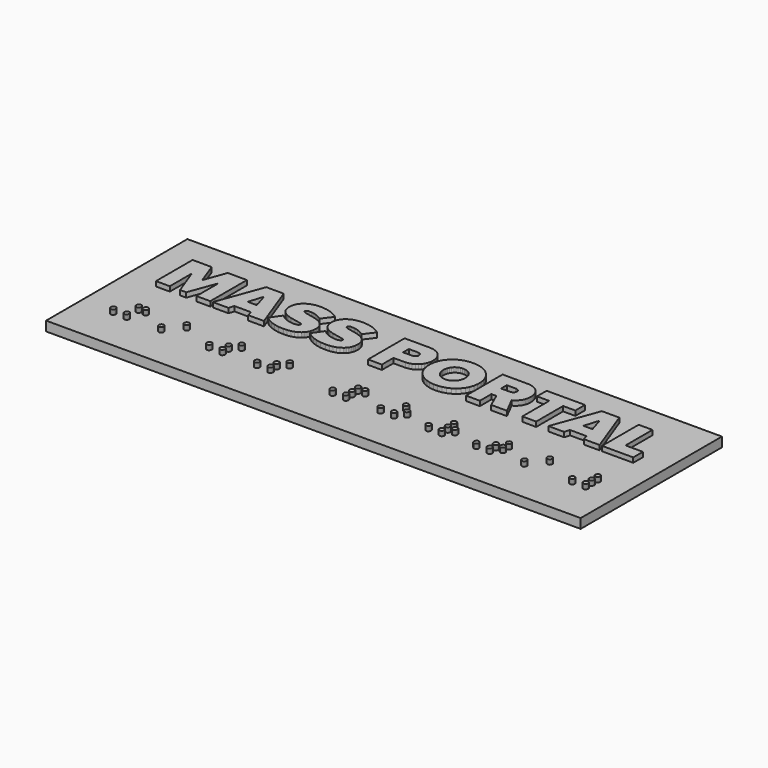
from build123d import *

# Parameters (mm, degrees)
F1_W     = 112
F1_H     = 37
F2_DEPTH = 2
F0_W     = 2.903547
F0_H     = 7.057639
F3_DEPTH = 3
F5_DEPTH = 1


with BuildPart() as f2:
    # F1 (on Top) → F2 (new body)
    with BuildSketch(Plane.XY):
        with Locations((-0.489352, -6.944787)):
            Rectangle(F1_W, F1_H)
    extrude(amount=F2_DEPTH)

    # F0 (on Top) → F3 (join)
    with BuildSketch(Plane.XY):
        Polygon((-10.735735, -3.493728), (-10.591875, -3.26892), (-10.468992, -3.029257), (-10.367511, -2.774986), (-10.287849, -2.506356), (-10.230428, -2.223614), (-10.183987, -1.616786), (-10.222649, -1.113876), (-10.333302, -0.671565), (-10.507951, -0.285334), (-10.738592, 0.049335), (-11.017227, 0.336957), (-11.33586, 0.58205), (-11.68649, 0.789131), (-12.061116, 0.962717), (-12.850363, 1.227472), (-14.962134, 1.687627), (-15.192776, 1.763024), (-15.367424, 1.850096), (-15.478077, 1.953361), (-15.516746, 2.077335), (-15.511744, 2.148788), (-15.505198, 2.182978), (-15.495701, 2.216015), (-15.483057, 2.247802), (-15.467069, 2.27824), (-15.447545, 2.307234), (-15.42429, 2.334687), (-15.397112, 2.360502), (-15.365817, 2.38458), (-15.330209, 2.406826), (-15.245281, 2.445431), (-15.140774, 2.475541), (-15.015137, 2.49638), (-14.866819, 2.507171), (-14.365931, 2.487209), (-14.078672, 2.449262), (-13.49436, 2.316446), (-12.91367, 2.107736), (-12.356613, 1.823131), (-11.966365, 1.559871), (-10.413971, 3.615354), (-10.751029, 3.869344), (-11.478264, 4.297113), (-12.270014, 4.617939), (-13.118685, 4.831824), (-14.016685, 4.938766), (-14.866778, 4.940679), (-15.57892, 4.852347), (-16.213659, 4.684197), (-16.770563, 4.44511), (-17.249201, 4.143971), (-17.649138, 3.789662), (-17.969945, 3.391068), (-18.100544, 3.177939), (-18.301851, 2.72957), (-18.422952, 2.259123), (-18.463418, 1.775481), (-18.424651, 1.242966), (-18.313698, 0.776243), (-18.138578, 0.370387), (-17.907315, 0.020472), (-17.627927, -0.278431), (-17.308436, -0.531246), (-16.956863, -0.742902), (-16.581227, -0.918324), (-15.789853, -1.180175), (-13.672391, -1.608507), (-13.441128, -1.67953), (-13.266008, -1.763588), (-13.155055, -1.865605), (-13.116284, -1.99051), (-13.120103, -2.044855), (-13.131319, -2.095814), (-13.149565, -2.143453), (-13.17447, -2.187837), (-13.205672, -2.229029), (-13.242805, -2.267095), (-13.2855, -2.302099), (-13.333392, -2.334106), (-13.443296, -2.389389), (-13.569583, -2.433459), (-13.709325, -2.466836), (-14.01745, -2.503576), (-14.372377, -2.503928), (-15.107535, -2.411848), (-15.782326, -2.212826), (-16.389844, -1.926179), (-16.923194, -1.571228), (-17.270373, -1.27181), (-18.779644, -3.427911), (-18.120281, -3.939626), (-17.358114, -4.361647), (-16.480036, -4.680175), (-15.472935, -4.881411), (-14.323704, -4.951556), (-13.582565, -4.915233), (-12.90516, -4.807586), (-12.294852, -4.630599), (-11.755005, -4.386255), (-11.288985, -4.076538), (-11.08471, -3.897785), (-10.900153, -3.703432), align=None)
        Polygon((-34.461695, -3.657895), (-31.011932, -3.657895), (-30.666955, -4.779068), (-27.375307, -4.779068), (-30.911313, 4.808397), (-34.562313, 4.808397), (-38.098318, -4.779068), (-34.806669, -4.779068), align=None)
        Polygon((-31.788127, -1.128069), (-33.685497, -1.128069), (-32.736812, 1.962343), align=None, mode=Mode.SUBTRACT)
        Polygon((-44.307889, 0.208714), (-45.989651, 4.808397), (-50.000001, 4.808397), (-50.000001, -4.779068), (-47.09645, -4.779068), (-47.09645, 0.98491), (-44.95472, -4.779068), (-43.661062, -4.779068), (-41.519332, 0.98491), (-41.519332, -4.779068), (-38.615782, -4.779068), (-38.615782, 4.808397), (-42.626132, 4.808397), align=None)
        Polygon((2.112978, 3.836354), (1.929948, 4.008963), (1.513949, 4.310174), (1.032234, 4.546745), (0.485835, 4.711517), (-0.124211, 4.797333), (-5.569932, 4.808397), (-5.569932, -4.779068), (-2.666382, -4.779068), (-2.666382, -1.760526), (-0.124214, -1.749465), (0.485832, -1.663695), (1.032231, -1.499099), (1.513946, -1.262919), (1.929945, -0.962401), (2.279187, -0.60479), (2.560647, -0.19733), (2.773282, 0.252735), (2.916058, 0.73816), (2.960928, 0.991868), (2.996979, 1.516749), (2.960928, 2.045526), (2.853469, 2.549032), (2.675629, 3.020111), (2.428458, 3.451605), align=None)
        Polygon((-2.666382, 2.278571), (-0.753989, 2.276734), (-0.614346, 2.261979), (-0.483327, 2.232303), (-0.362657, 2.187535), (-0.25406, 2.127502), (-0.204829, 2.091707), (-0.159265, 2.052032), (-0.11758, 2.008453), (-0.079992, 1.960951), (-0.046718, 1.909503), (-0.01797, 1.854088), (0.006033, 1.794683), (0.025079, 1.731269), (0.047431, 1.592322), (0.047434, 1.443224), (0.025082, 1.307774), (0.006036, 1.245828), (-0.017967, 1.187719), (-0.046714, 1.133437), (-0.079989, 1.082972), (-0.117577, 1.036312), (-0.159261, 0.993447), (-0.254057, 0.919058), (-0.362654, 0.859718), (-0.483324, 0.815342), (-0.614343, 0.785843), (-0.753986, 0.771135), (-2.666382, 0.7693), align=None, mode=Mode.SUBTRACT)
        Polygon((-23.773405, 1.687627), (-24.004046, 1.763024), (-24.178694, 1.850096), (-24.289349, 1.953361), (-24.328015, 2.077335), (-24.323012, 2.148788), (-24.316469, 2.182978), (-24.306971, 2.216015), (-24.294326, 2.247802), (-24.278339, 2.27824), (-24.258815, 2.307234), (-24.235561, 2.334687), (-24.208384, 2.360502), (-24.177087, 2.38458), (-24.141479, 2.406826), (-24.056551, 2.445431), (-23.952044, 2.475541), (-23.826407, 2.49638), (-23.678089, 2.507171), (-23.177201, 2.487209), (-22.889942, 2.449262), (-22.30563, 2.316446), (-21.72494, 2.107736), (-21.167883, 1.823131), (-20.777635, 1.559871), (-19.225242, 3.615354), (-19.562299, 3.869344), (-20.289534, 4.297113), (-21.081284, 4.617939), (-21.929955, 4.831824), (-22.827955, 4.938766), (-23.678048, 4.940679), (-24.390191, 4.852347), (-25.024929, 4.684197), (-25.581831, 4.44511), (-26.060468, 4.143971), (-26.460408, 3.789662), (-26.781219, 3.391068), (-26.911815, 3.177939), (-27.113124, 2.72957), (-27.234226, 2.259123), (-27.274687, 1.775481), (-27.235921, 1.242966), (-27.124968, 0.776243), (-26.94985, 0.370387), (-26.718587, 0.020472), (-26.439199, -0.278431), (-26.119708, -0.531246), (-25.768134, -0.742902), (-25.392497, -0.918324), (-24.601121, -1.180175), (-22.483658, -1.608507), (-22.252395, -1.67953), (-22.077278, -1.763588), (-21.966325, -1.865605), (-21.927554, -1.99051), (-21.931374, -2.044855), (-21.942589, -2.095814), (-21.960835, -2.143453), (-21.985741, -2.187837), (-22.016943, -2.229029), (-22.054075, -2.267095), (-22.09677, -2.302099), (-22.144662, -2.334106), (-22.254563, -2.389389), (-22.38085, -2.433459), (-22.520592, -2.466836), (-22.828717, -2.503576), (-23.183647, -2.503928), (-23.918805, -2.411848), (-24.593591, -2.212826), (-25.201109, -1.926179), (-25.734456, -1.571228), (-26.081644, -1.27181), (-27.590915, -3.427911), (-26.931553, -3.939626), (-26.169387, -4.361647), (-25.291308, -4.680175), (-24.284205, -4.881411), (-23.134971, -4.951556), (-22.393833, -4.915233), (-21.716428, -4.807586), (-21.106123, -4.630599), (-20.566279, -4.386255), (-20.100262, -4.076538), (-19.895986, -3.897785), (-19.711429, -3.703432), (-19.547012, -3.493728), (-19.403151, -3.26892), (-19.280268, -3.029257), (-19.178787, -2.774986), (-19.099126, -2.506356), (-19.041705, -2.223614), (-18.995257, -1.616786), (-19.033919, -1.113876), (-19.144573, -0.671565), (-19.319221, -0.285334), (-19.549862, 0.049335), (-19.828497, 0.336957), (-20.14713, 0.58205), (-20.49776, 0.789131), (-20.872386, 0.962717), (-21.661633, 1.227472), align=None)
        Polygon((23.442152, 2.300884), (23.299375, 2.789072), (23.08674, 3.241253), (22.805281, 3.65027), (22.456035, 4.008963), (22.04003, 4.310174), (21.558312, 4.546745), (21.011913, 4.711517), (20.401867, 4.797333), (14.956159, 4.808397), (14.956159, -4.779068), (17.859706, -4.779068), (17.859706, -1.760526), (18.909018, -1.760526), (20.231423, -4.779068), (23.537445, -4.779068), (21.798186, -1.386801), (22.031607, -1.259318), (22.270117, -1.100011), (22.506726, -0.907241), (22.734453, -0.67937), (22.946317, -0.414759), (23.135327, -0.111769), (23.294497, 0.231239), (23.360708, 0.418261), (23.462014, 0.824366), (23.516014, 1.274585), (23.514038, 1.783849), align=None)
        Polygon((19.844239, 2.262853), (19.982125, 2.23455), (20.111818, 2.191586), (20.230728, 2.133616), (20.336274, 2.060295), (20.383222, 2.017769), (20.42586, 1.971276), (20.463863, 1.920773), (20.496904, 1.866216), (20.524667, 1.807563), (20.546818, 1.744771), (20.563045, 1.677795), (20.573018, 1.606594), (20.576397, 1.531123), (20.572998, 1.453602), (20.563026, 1.380555), (20.546798, 1.311928), (20.524647, 1.247667), (20.496885, 1.187719), (20.463844, 1.132028), (20.425841, 1.080542), (20.383203, 1.033207), (20.336255, 0.989968), (20.230709, 0.915564), (20.111799, 0.8569), (19.982106, 0.813544), (19.84422, 0.785066), (19.700729, 0.771033), (17.859706, 0.7693), (17.859706, 2.278571), (19.700748, 2.276839), align=None, mode=Mode.SUBTRACT)
        Polygon((13.904284, 0.442337), (13.772385, 1.266777), (13.517852, 2.025455), (13.150339, 2.711903), (12.679505, 3.319655), (12.11501, 3.84224), (11.466508, 4.273191), (10.743666, 4.60604), (9.956144, 4.834317), (9.113601, 4.951555), (8.235829, 4.951553), (7.393286, 4.834315), (6.605763, 4.606037), (5.882921, 4.273189), (5.23442, 3.842238), (4.669925, 3.319652), (4.199091, 2.711901), (4.001817, 2.37811), (3.831577, 2.025453), (3.577044, 1.266775), (3.445146, 0.442336), (3.445139, -0.427381), (3.577038, -1.251821), (3.831571, -2.010499), (4.199085, -2.696948), (4.669919, -3.304699), (5.234413, -3.827285), (5.882915, -4.258236), (6.605757, -4.591084), (7.393279, -4.819361), (8.235823, -4.936599), (9.113607, -4.936598), (9.95615, -4.81936), (10.743673, -4.591083), (11.466515, -4.258235), (12.115016, -3.827284), (12.679511, -3.304699), (13.150345, -2.696948), (13.517858, -2.010499), (13.772391, -1.25182), (13.90429, -0.42738), align=None)
        Polygon((10.222103, 1.833796), (10.462398, 1.574183), (10.659615, 1.276839), (10.811254, 0.946506), (10.914817, 0.587929), (10.967797, 0.20585), (10.967817, -0.190892), (10.914836, -0.572971), (10.811274, -0.931549), (10.659634, -1.261881), (10.462417, -1.559226), (10.222122, -1.818839), (9.941249, -2.035976), (9.622297, -2.205895), (9.267765, -2.323852), (8.88016, -2.385104), (8.469295, -2.385104), (8.08169, -2.323852), (7.727158, -2.205895), (7.408206, -2.035976), (7.127327, -1.818839), (6.887019, -1.559227), (6.689802, -1.261882), (6.538162, -0.93155), (6.434599, -0.572972), (6.381619, -0.190893), (6.381613, 0.205848), (6.434593, 0.587928), (6.538156, 0.946505), (6.689796, 1.276838), (6.887013, 1.574183), (7.12732, 1.833795), (7.4082, 2.050933), (7.727152, 2.220851), (8.081683, 2.338807), (8.469288, 2.400059), (8.880141, 2.400059), (9.267746, 2.338807), (9.622278, 2.220851), (9.94123, 2.050933), align=None, mode=Mode.SUBTRACT)
        Polygon((46.363377, -2.249242), (46.363377, 4.808397), (43.459824, 4.808397), (43.459824, -4.779068), (49.999999, -4.779068), (49.999999, -2.249242), align=None)
        Polygon((35.755353, 4.808397), (32.219348, -4.779068), (35.51099, -4.779068), (35.85597, -3.657895), (39.305731, -3.657895), (39.650711, -4.779068), (42.942354, -4.779068), (39.406348, 4.808397), align=None)
        Polygon((36.632162, -1.128069), (37.580851, 1.962343), (38.529539, -1.128069), align=None, mode=Mode.SUBTRACT)
        with Locations((28.208994, -1.250248)):
            Rectangle(F0_W, F0_H)
        Polygon((24.184269, 2.278571), (26.757221, 2.278571), (29.660768, 2.278571), (32.219341, 2.278571), (32.219341, 4.808397), (24.184269, 4.808397), align=None)
    extrude(amount=F3_DEPTH)

    # F4 (on face) → F5 (join)
    with BuildSketch(Plane.XY.offset(2)):
        Polygon((9.773728, -16.815284), (9.787575, -16.782964), (9.808884, -16.715428), (9.821666, -16.644034), (9.825929, -16.568779), (9.821894, -16.493686), (9.809834, -16.422773), (9.789737, -16.356042), (9.761598, -16.29349), (9.744513, -16.263783), (9.704317, -16.207502), (9.656648, -16.155967), (9.604867, -16.112551), (9.549553, -16.077818), (9.4907, -16.05177), (9.428308, -16.034403), (9.362383, -16.025719), (9.292757, -16.02578), (9.224259, -16.034945), (9.158658, -16.053276), (9.095942, -16.080773), (9.036121, -16.117436), (8.979197, -16.163264), (8.925925, -16.217493), (8.880903, -16.275541), (8.844882, -16.336645), (8.817869, -16.400803), (8.799861, -16.468018), (8.790854, -16.538287), (8.790811, -16.611753), (8.799499, -16.68347), (8.816863, -16.751649), (8.842916, -16.81629), (8.877651, -16.877394), (8.921067, -16.934959), (8.972443, -16.988305), (9.027433, -17.033328), (9.085319, -17.069348), (9.146101, -17.096361), (9.209779, -17.114371), (9.276353, -17.123376), (9.345077, -17.123376), (9.411484, -17.114371), (9.474837, -17.096361), (9.535139, -17.069348), (9.592381, -17.033328), (9.646572, -16.988305), (9.697023, -16.934919), (9.739636, -16.877031), align=None)
        Polygon((-46.231302, -13.69433), (-46.215322, -13.663215), (-46.189755, -13.597609), (-46.172711, -13.527501), (-46.164189, -13.45289), (-46.164128, -13.375847), (-46.172168, -13.303004), (-46.188248, -13.234504), (-46.212368, -13.170346), (-46.244528, -13.110527), (-46.284728, -13.055051), (-46.332405, -13.004441), (-46.384182, -12.961828), (-46.439497, -12.927738), (-46.49835, -12.902171), (-46.56074, -12.885127), (-46.626667, -12.876605), (-46.696293, -12.876664), (-46.764795, -12.885669), (-46.830401, -12.903679), (-46.893112, -12.930693), (-46.952929, -12.966713), (-47.009853, -13.011736), (-47.063116, -13.065039), (-47.108141, -13.122284), (-47.144159, -13.182746), (-47.171174, -13.246422), (-47.189184, -13.313315), (-47.198188, -13.383424), (-47.198229, -13.455944), (-47.189545, -13.526052), (-47.17218, -13.592945), (-47.14613, -13.656622), (-47.111397, -13.717082), (-47.067981, -13.774327), (-47.016606, -13.827632), (-46.961613, -13.872657), (-46.903725, -13.908675), (-46.842942, -13.93569), (-46.779266, -13.953698), (-46.712694, -13.962703), (-46.643973, -13.962745), (-46.577563, -13.954061), (-46.514208, -13.936694), (-46.483677, -13.924756), (-46.424904, -13.894365), (-46.369187, -13.85529), (-46.316525, -13.807533), (-46.269652, -13.753183), align=None)
        Polygon((-14.874782, -13.924756), (-14.84439, -13.910645), (-14.786503, -13.875913), (-14.732474, -13.832497), (-14.682867, -13.78092), (-14.641061, -13.724318), (-14.607614, -13.663215), (-14.582528, -13.597609), (-14.565807, -13.527501), (-14.557444, -13.45289), (-14.557414, -13.375847), (-14.565453, -13.303004), (-14.581531, -13.234504), (-14.60565, -13.170346), (-14.637807, -13.110527), (-14.678005, -13.055051), (-14.72568, -13.004441), (-14.777458, -12.961828), (-14.832772, -12.927738), (-14.891625, -12.902171), (-14.954014, -12.885127), (-15.019942, -12.876605), (-15.089547, -12.876664), (-15.157887, -12.885669), (-15.223173, -12.903679), (-15.285403, -12.930693), (-15.344577, -12.966713), (-15.400696, -13.011736), (-15.453036, -13.065039), (-15.497256, -13.122284), (-15.53263, -13.182746), (-15.559164, -13.246422), (-15.576853, -13.313315), (-15.585697, -13.383424), (-15.585756, -13.455944), (-15.577393, -13.526052), (-15.560672, -13.592945), (-15.535586, -13.656622), (-15.50214, -13.717082), (-15.460333, -13.774327), (-15.410808, -13.827632), (-15.357421, -13.872657), (-15.300822, -13.908675), (-15.241004, -13.93569), (-15.209889, -13.945819), (-15.145248, -13.959327), (-15.077388, -13.963829), (-15.005993, -13.959488), (-14.938457, -13.946464), align=None)
        Polygon((6.12174, -16.223282), (6.077519, -16.28133), (6.04214, -16.342434), (6.015607, -16.406593), (6.005655, -16.439817), (5.992391, -16.50856), (5.987966, -16.580356), (5.992149, -16.652073), (6.004687, -16.720573), (6.025592, -16.785858), (6.03918, -16.817295), (6.072628, -16.877755), (6.114435, -16.935), (6.163958, -16.988305), (6.217344, -17.033328), (6.27395, -17.069348), (6.333764, -17.096361), (6.396798, -17.114371), (6.463054, -17.123376), (6.533561, -17.123396), (6.603025, -17.114553), (6.668631, -17.096864), (6.73038, -17.070332), (6.788267, -17.034957), (6.842295, -16.990736), (6.891899, -16.938236), (6.933711, -16.88083), (6.967159, -16.819084), (6.992245, -16.752994), (7.008966, -16.682565), (7.017325, -16.607793), (7.017352, -16.53073), (7.009313, -16.457888), (6.993234, -16.389388), (6.969115, -16.325228), (6.936958, -16.265412), (6.896761, -16.209936), (6.849086, -16.159324), (6.797311, -16.116712), (6.741997, -16.082623), (6.683143, -16.057055), (6.620751, -16.04001), (6.554826, -16.031488), (6.485217, -16.031569), (6.416876, -16.040734), (6.351594, -16.059065), (6.289363, -16.086561), (6.230191, -16.123224), (6.174072, -16.169052), align=None)
        Polygon((49.095182, -13.774327), (49.146563, -13.827632), (49.201553, -13.872657), (49.25944, -13.908675), (49.320221, -13.93569), (49.383899, -13.953698), (49.450473, -13.962703), (49.519197, -13.962745), (49.585609, -13.954061), (49.648962, -13.936694), (49.679499, -13.924756), (49.738271, -13.894365), (49.793985, -13.85529), (49.846641, -13.807533), (49.893505, -13.753183), (49.931855, -13.69433), (49.947835, -13.663215), (49.973403, -13.597609), (49.990443, -13.527501), (49.998969, -13.45289), (49.999023, -13.375847), (49.990984, -13.303004), (49.974904, -13.234504), (49.950786, -13.170346), (49.918628, -13.110527), (49.878431, -13.055051), (49.830757, -13.004441), (49.778976, -12.961828), (49.723662, -12.927738), (49.664813, -12.902171), (49.602422, -12.885127), (49.536496, -12.876605), (49.466833, -12.876664), (49.398336, -12.885669), (49.332734, -12.903679), (49.270028, -12.930693), (49.21022, -12.966713), (49.153306, -13.011736), (49.100034, -13.065039), (49.055007, -13.122284), (49.018991, -13.182746), (48.991978, -13.246422), (48.973975, -13.313315), (48.964974, -13.383424), (48.96492, -13.455944), (48.973597, -13.526052), (48.990962, -13.592945), (49.017014, -13.656622), (49.051755, -13.717082), align=None)
        Polygon((-3.558308, -16.031569), (-3.62665, -16.040734), (-3.691932, -16.059065), (-3.754161, -16.086561), (-3.813339, -16.123224), (-3.869458, -16.169052), (-3.921795, -16.223282), (-3.966017, -16.28133), (-4.00139, -16.342434), (-4.027923, -16.406593), (-4.045606, -16.473808), (-4.054451, -16.544077), (-4.054522, -16.616617), (-4.046162, -16.686726), (-4.029441, -16.753617), (-4.004355, -16.817295), (-3.970906, -16.877755), (-3.929094, -16.935), (-3.879561, -16.988305), (-3.826175, -17.033328), (-3.769576, -17.069348), (-3.709761, -17.096361), (-3.646726, -17.114371), (-3.580476, -17.123376), (-3.509963, -17.123396), (-3.4405, -17.114553), (-3.374893, -17.096864), (-3.313144, -17.070332), (-3.255258, -17.034957), (-3.201229, -16.990736), (-3.151621, -16.938236), (-3.109814, -16.88083), (-3.076365, -16.819084), (-3.051279, -16.752994), (-3.034558, -16.682565), (-3.026199, -16.607793), (-3.026172, -16.53073), (-3.034213, -16.457888), (-3.050291, -16.389388), (-3.074409, -16.325228), (-3.106567, -16.265412), (-3.146763, -16.209936), (-3.194438, -16.159324), (-3.246219, -16.116712), (-3.301533, -16.082623), (-3.360387, -16.057055), (-3.422779, -16.04001), (-3.488704, -16.031488), align=None)
        Polygon((-0.281927, -16.29349), (-0.299011, -16.263783), (-0.339208, -16.207502), (-0.386877, -16.155967), (-0.438657, -16.112551), (-0.493972, -16.077818), (-0.552824, -16.05177), (-0.615217, -16.034403), (-0.681141, -16.025719), (-0.750764, -16.02578), (-0.81926, -16.034945), (-0.884866, -16.053276), (-0.947583, -16.080773), (-1.007404, -16.117436), (-1.064327, -16.163264), (-1.117599, -16.217493), (-1.162621, -16.275541), (-1.198642, -16.336645), (-1.225656, -16.400803), (-1.243664, -16.468018), (-1.252671, -16.538287), (-1.252708, -16.611753), (-1.24402, -16.68347), (-1.226656, -16.751649), (-1.200603, -16.81629), (-1.165873, -16.877394), (-1.122457, -16.934959), (-1.071086, -16.988305), (-1.016096, -17.033328), (-0.958211, -17.069348), (-0.897428, -17.096361), (-0.83375, -17.114371), (-0.767177, -17.123376), (-0.698453, -17.123376), (-0.632042, -17.114371), (-0.568687, -17.096361), (-0.508387, -17.069348), (-0.451144, -17.033328), (-0.396952, -16.988305), (-0.346507, -16.934919), (-0.303894, -16.877031), (-0.269802, -16.815284), (-0.255955, -16.782964), (-0.234646, -16.715428), (-0.221864, -16.644034), (-0.217601, -16.568779), (-0.22163, -16.493686), (-0.23369, -16.422773), (-0.253789, -16.356042), align=None)
        Polygon((39.558887, -12.885127), (39.492962, -12.876605), (39.423319, -12.876664), (39.354821, -12.885669), (39.28922, -12.903679), (39.226515, -12.930693), (39.166705, -12.966713), (39.109786, -13.011736), (39.05652, -13.065039), (39.011499, -13.122284), (38.975478, -13.182746), (38.948463, -13.246422), (38.930456, -13.313315), (38.92145, -13.383424), (38.921411, -13.455944), (38.930093, -13.526052), (38.947459, -13.592945), (38.973506, -13.656622), (39.008235, -13.717082), (39.051652, -13.774327), (39.103022, -13.827632), (39.158018, -13.872657), (39.215904, -13.908675), (39.276685, -13.93569), (39.340363, -13.953698), (39.406937, -13.962703), (39.47565, -13.962745), (39.542063, -13.954061), (39.605416, -13.936694), (39.635952, -13.924756), (39.694725, -13.894365), (39.750449, -13.85529), (39.803116, -13.807533), (39.849981, -13.753183), (39.888331, -13.69433), (39.904311, -13.663215), (39.929878, -13.597609), (39.946918, -13.527501), (39.955444, -13.45289), (39.955498, -13.375847), (39.947459, -13.303004), (39.93138, -13.234504), (39.907261, -13.170346), (39.875104, -13.110527), (39.834907, -13.055051), (39.787232, -13.004441), (39.735452, -12.961828), (39.680126, -12.927738), (39.621279, -12.902171), align=None)
        Polygon((48.964974, -14.957972), (48.96492, -15.031417), (48.973597, -15.103133), (48.990962, -15.171312), (49.017014, -15.235953), (49.051755, -15.297057), (49.095182, -15.354624), (49.146563, -15.407968), (49.201553, -15.452993), (49.25944, -15.489011), (49.320221, -15.516026), (49.383899, -15.534035), (49.450473, -15.54304), (49.519197, -15.54306), (49.585609, -15.534216), (49.648962, -15.516528), (49.709269, -15.489996), (49.766507, -15.45462), (49.820697, -15.4104), (49.871137, -15.357939), (49.913745, -15.300856), (49.947835, -15.239752), (49.961688, -15.207693), (49.982987, -15.14056), (49.995769, -15.069405), (50.000038, -14.994231), (49.996007, -14.919139), (49.983949, -14.848225), (49.96385, -14.781494), (49.935712, -14.718944), (49.918628, -14.689236), (49.878431, -14.632956), (49.830757, -14.581419), (49.778976, -14.538004), (49.723662, -14.503271), (49.664813, -14.477222), (49.602422, -14.459855), (49.536496, -14.451173), (49.466833, -14.451212), (49.398336, -14.460217), (49.332734, -14.478227), (49.270028, -14.505241), (49.21022, -14.541261), (49.153306, -14.586284), (49.100034, -14.639589), (49.055007, -14.696833), (49.018991, -14.757293), (48.991978, -14.82097), (48.973975, -14.887863), align=None)
        Polygon((46.79486, -16.04001), (46.728935, -16.031488), (46.659326, -16.031569), (46.59098, -16.040734), (46.525703, -16.059065), (46.463472, -16.086561), (46.4043, -16.123224), (46.348187, -16.169052), (46.295844, -16.223282), (46.251628, -16.28133), (46.216249, -16.342434), (46.201878, -16.374131), (46.179769, -16.439817), (46.1665, -16.50856), (46.162081, -16.580356), (46.166262, -16.652073), (46.178808, -16.720573), (46.188209, -16.753617), (46.213288, -16.817295), (46.246731, -16.877755), (46.28854, -16.935), (46.338062, -16.988305), (46.391453, -17.033328), (46.448053, -17.069348), (46.507873, -17.096361), (46.570913, -17.114371), (46.637163, -17.123376), (46.70768, -17.123396), (46.777151, -17.114553), (46.842752, -17.096864), (46.904495, -17.070332), (46.962381, -17.034957), (47.01641, -16.990736), (47.066018, -16.938236), (47.107825, -16.88083), (47.141268, -16.819084), (47.166349, -16.752994), (47.183065, -16.682565), (47.191429, -16.607793), (47.191461, -16.53073), (47.183421, -16.457888), (47.167343, -16.389388), (47.143224, -16.325228), (47.111067, -16.265412), (47.07087, -16.209936), (47.023195, -16.159324), (46.971415, -16.116712), (46.9161, -16.082623), (46.857252, -16.057055), align=None)
        Polygon((49.918628, -16.263783), (49.878431, -16.207502), (49.830757, -16.155967), (49.778976, -16.112551), (49.723662, -16.077818), (49.664813, -16.05177), (49.602422, -16.034403), (49.536496, -16.025719), (49.466833, -16.02578), (49.398336, -16.034945), (49.332734, -16.053276), (49.270028, -16.080773), (49.21022, -16.117436), (49.153306, -16.163264), (49.100034, -16.217493), (49.055007, -16.275541), (49.018991, -16.336645), (48.991978, -16.400803), (48.973975, -16.468018), (48.964974, -16.538287), (48.96492, -16.611753), (48.973597, -16.68347), (48.990962, -16.751649), (49.017014, -16.81629), (49.051755, -16.877394), (49.095182, -16.934959), (49.146563, -16.988305), (49.201553, -17.033328), (49.25944, -17.069348), (49.320221, -17.096361), (49.383899, -17.114371), (49.450473, -17.123376), (49.519197, -17.123376), (49.585609, -17.114371), (49.648962, -17.096361), (49.709269, -17.069348), (49.766507, -17.033328), (49.820697, -16.988305), (49.871137, -16.934919), (49.913745, -16.877031), (49.947835, -16.815284), (49.961688, -16.782964), (49.982987, -16.715428), (49.995769, -16.644034), (50.000038, -16.568779), (49.996007, -16.493686), (49.983949, -16.422773), (49.96385, -16.356042), (49.935712, -16.29349), align=None)
        Polygon((29.903394, -16.680214), (29.911914, -16.606888), (29.911968, -16.53071), (29.903929, -16.457707), (29.88785, -16.388885), (29.863731, -16.324243), (29.831574, -16.263783), (29.791377, -16.207502), (29.743702, -16.155967), (29.691927, -16.112551), (29.636613, -16.077818), (29.577759, -16.05177), (29.515367, -16.034403), (29.449442, -16.025719), (29.379838, -16.02578), (29.311329, -16.034945), (29.245718, -16.053276), (29.183002, -16.080773), (29.123181, -16.117436), (29.066258, -16.163264), (29.01299, -16.217493), (28.967969, -16.275541), (28.931948, -16.336645), (28.904934, -16.400803), (28.886926, -16.468018), (28.877919, -16.538287), (28.877881, -16.611753), (28.886565, -16.68347), (28.903929, -16.751649), (28.929981, -16.81629), (28.96471, -16.877394), (29.008128, -16.934959), (29.059503, -16.988305), (29.114493, -17.033328), (29.17238, -17.069348), (29.233161, -17.096361), (29.296839, -17.114371), (29.363413, -17.123376), (29.432137, -17.123376), (29.498543, -17.114371), (29.561896, -17.096361), (29.622197, -17.069348), (29.679441, -17.033328), (29.733631, -16.988305), (29.784089, -16.934919), (29.8267, -16.877031), (29.860787, -16.815284), (29.886353, -16.749679), align=None)
        Polygon((-26.411292, -16.05177), (-26.473683, -16.034403), (-26.53961, -16.025719), (-26.609236, -16.02578), (-26.677736, -16.034945), (-26.743343, -16.053276), (-26.806054, -16.080773), (-26.865872, -16.117436), (-26.922795, -16.163264), (-26.976059, -16.217493), (-27.021084, -16.275541), (-27.057102, -16.336645), (-27.084116, -16.400803), (-27.102127, -16.468018), (-27.111131, -16.538287), (-27.11117, -16.611753), (-27.102488, -16.68347), (-27.085121, -16.751649), (-27.059071, -16.81629), (-27.02434, -16.877394), (-26.980925, -16.934959), (-26.92955, -16.988305), (-26.874554, -17.033328), (-26.816668, -17.069348), (-26.755886, -17.096361), (-26.692208, -17.114371), (-26.625637, -17.123376), (-26.556916, -17.123376), (-26.490507, -17.114371), (-26.427151, -17.096361), (-26.366853, -17.069348), (-26.309606, -17.033328), (-26.255418, -16.988305), (-26.204967, -16.934919), (-26.162354, -16.877031), (-26.128265, -16.815284), (-26.102696, -16.749679), (-26.085653, -16.680214), (-26.07713, -16.606888), (-26.077079, -16.53071), (-26.085118, -16.457707), (-26.101197, -16.388885), (-26.125316, -16.324243), (-26.157474, -16.263783), (-26.19767, -16.207502), (-26.245345, -16.155967), (-26.297123, -16.112551), (-26.35244, -16.077818), align=None)
        Polygon((-46.164189, -16.606888), (-46.164128, -16.53071), (-46.172168, -16.457707), (-46.188248, -16.388885), (-46.212368, -16.324243), (-46.244528, -16.263783), (-46.284728, -16.207502), (-46.332405, -16.155967), (-46.384182, -16.112551), (-46.439497, -16.077818), (-46.49835, -16.05177), (-46.56074, -16.034403), (-46.626667, -16.025719), (-46.696293, -16.02578), (-46.764795, -16.034945), (-46.830401, -16.053276), (-46.893112, -16.080773), (-46.952929, -16.117436), (-47.009853, -16.163264), (-47.063116, -16.217493), (-47.108141, -16.275541), (-47.144159, -16.336645), (-47.171174, -16.400803), (-47.189184, -16.468018), (-47.198188, -16.538287), (-47.198229, -16.611753), (-47.189545, -16.68347), (-47.17218, -16.751649), (-47.14613, -16.81629), (-47.111397, -16.877394), (-47.067981, -16.934959), (-47.016606, -16.988305), (-46.961613, -17.033328), (-46.903725, -17.069348), (-46.842942, -17.096361), (-46.779266, -17.114371), (-46.712694, -17.123376), (-46.643973, -17.123376), (-46.577563, -17.114371), (-46.514208, -17.096361), (-46.453908, -17.069348), (-46.396664, -17.033328), (-46.342475, -16.988305), (-46.292024, -16.934919), (-46.249412, -16.877031), (-46.215322, -16.815284), (-46.189755, -16.749679), (-46.172711, -16.680214), align=None)
        Polygon((-16.161437, -15.357939), (-16.118824, -15.300856), (-16.084736, -15.239752), (-16.059167, -15.174628), (-16.042123, -15.105485), (-16.0336, -15.032322), (-16.03354, -14.956163), (-16.041581, -14.88316), (-16.057659, -14.814337), (-16.081777, -14.749696), (-16.113941, -14.689236), (-16.154143, -14.632956), (-16.201821, -14.581419), (-16.253596, -14.538004), (-16.30891, -14.503271), (-16.367764, -14.477222), (-16.430153, -14.459855), (-16.496081, -14.451173), (-16.565707, -14.451212), (-16.634206, -14.460217), (-16.699813, -14.478227), (-16.762524, -14.505241), (-16.822342, -14.541261), (-16.879265, -14.586284), (-16.932532, -14.639589), (-16.977556, -14.696833), (-17.013575, -14.757293), (-17.040588, -14.82097), (-17.050719, -14.854014), (-17.064227, -14.922516), (-17.068729, -14.994231), (-17.064385, -15.067717), (-17.051359, -15.137665), (-17.029652, -15.204075), (-17.015541, -15.235953), (-16.98081, -15.297057), (-16.937395, -15.354624), (-16.88602, -15.407968), (-16.831024, -15.452993), (-16.773137, -15.489011), (-16.712356, -15.516026), (-16.648678, -15.534035), (-16.58211, -15.54304), (-16.513388, -15.54306), (-16.44698, -15.534216), (-16.383624, -15.516528), (-16.323325, -15.489996), (-16.266079, -15.45462), (-16.211891, -15.4104), align=None)
        Polygon((30.991503, -12.885127), (30.925578, -12.876605), (30.855967, -12.876664), (30.787627, -12.885669), (30.722344, -12.903679), (30.660116, -12.930693), (30.600943, -12.966713), (30.544824, -13.011736), (30.492487, -13.065039), (30.448264, -13.122284), (30.412893, -13.182746), (30.386359, -13.246422), (30.376412, -13.279466), (30.363149, -13.347968), (30.358723, -13.419685), (30.362905, -13.4914), (30.375445, -13.5599), (30.396348, -13.625186), (30.409937, -13.656622), (30.443386, -13.717082), (30.485187, -13.774327), (30.53471, -13.827632), (30.588096, -13.872657), (30.6447, -13.908675), (30.704516, -13.93569), (30.735631, -13.945819), (30.800275, -13.959327), (30.868135, -13.963829), (30.939527, -13.959488), (31.007063, -13.946464), (31.070741, -13.924756), (31.101132, -13.910645), (31.159023, -13.875913), (31.213051, -13.832497), (31.26265, -13.78092), (31.304462, -13.724318), (31.337911, -13.663215), (31.362997, -13.597609), (31.379718, -13.527501), (31.388076, -13.45289), (31.388109, -13.375847), (31.38007, -13.303004), (31.36399, -13.234504), (31.339873, -13.170346), (31.307716, -13.110527), (31.267517, -13.055051), (31.219843, -13.004441), (31.168062, -12.961828), (31.112748, -12.927738), (31.053895, -12.902171), align=None)
        Polygon((-45.005368, -13.924756), (-44.974976, -13.910645), (-44.917089, -13.875913), (-44.86306, -13.832497), (-44.813453, -13.78092), (-44.771647, -13.724318), (-44.7382, -13.663215), (-44.713116, -13.597609), (-44.696392, -13.527501), (-44.68803, -13.45289), (-44.68799, -13.375847), (-44.696031, -13.303004), (-44.71211, -13.234504), (-44.73623, -13.170346), (-44.76839, -13.110527), (-44.80859, -13.055051), (-44.856267, -13.004441), (-44.908044, -12.961828), (-44.96336, -12.927738), (-45.022212, -12.902171), (-45.084602, -12.885127), (-45.150529, -12.876605), (-45.220136, -12.876664), (-45.288476, -12.885669), (-45.35376, -12.903679), (-45.415989, -12.930693), (-45.475163, -12.966713), (-45.531282, -13.011736), (-45.583622, -13.065039), (-45.627841, -13.122284), (-45.663218, -13.182746), (-45.68975, -13.246422), (-45.707437, -13.313315), (-45.716282, -13.383424), (-45.716342, -13.455944), (-45.70798, -13.526052), (-45.691257, -13.592945), (-45.666172, -13.656622), (-45.632726, -13.717082), (-45.590919, -13.774327), (-45.541393, -13.827632), (-45.488007, -13.872657), (-45.431407, -13.908675), (-45.371589, -13.93569), (-45.340474, -13.945819), (-45.275833, -13.959327), (-45.207975, -13.963829), (-45.13658, -13.959488), (-45.069044, -13.946464), align=None)
        Polygon((9.564141, -13.894365), (9.61986, -13.85529), (9.672522, -13.807533), (9.719396, -13.753183), (9.757746, -13.69433), (9.773728, -13.663215), (9.799294, -13.597609), (9.816339, -13.527501), (9.824866, -13.45289), (9.824908, -13.375847), (9.816869, -13.303004), (9.800789, -13.234504), (9.776672, -13.170346), (9.744513, -13.110527), (9.704317, -13.055051), (9.656648, -13.004441), (9.604867, -12.961828), (9.549553, -12.927738), (9.4907, -12.902171), (9.428308, -12.885127), (9.362383, -12.876605), (9.292757, -12.876664), (9.224259, -12.885669), (9.158658, -12.903679), (9.095942, -12.930693), (9.036121, -12.966713), (8.979197, -13.011736), (8.925925, -13.065039), (8.880903, -13.122284), (8.844882, -13.182746), (8.817869, -13.246422), (8.799861, -13.313315), (8.790854, -13.383424), (8.790811, -13.455944), (8.799499, -13.526052), (8.816863, -13.592945), (8.842916, -13.656622), (8.877651, -13.717082), (8.921067, -13.774327), (8.972443, -13.827632), (9.027433, -13.872657), (9.085319, -13.908675), (9.146101, -13.93569), (9.209779, -13.953698), (9.276353, -13.962703), (9.345077, -13.962745), (9.411484, -13.954061), (9.474837, -13.936694), (9.505369, -13.924756), align=None)
        Polygon((21.124532, -14.538004), (21.069219, -14.503271), (21.010365, -14.477222), (20.947973, -14.459855), (20.882048, -14.451173), (20.812437, -14.451212), (20.744097, -14.460217), (20.678814, -14.478227), (20.616585, -14.505241), (20.557407, -14.541261), (20.501288, -14.586284), (20.448957, -14.639589), (20.404735, -14.696833), (20.369362, -14.757293), (20.342829, -14.82097), (20.332877, -14.854014), (20.319613, -14.922516), (20.315188, -14.994231), (20.319365, -15.067717), (20.331904, -15.137665), (20.352808, -15.204075), (20.366395, -15.235953), (20.399844, -15.297057), (20.441657, -15.354624), (20.49119, -15.407968), (20.544575, -15.452993), (20.601176, -15.489011), (20.660991, -15.516026), (20.724026, -15.534035), (20.790276, -15.54304), (20.860788, -15.54306), (20.930252, -15.534216), (20.995859, -15.516528), (21.057602, -15.489996), (21.115489, -15.45462), (21.169517, -15.4104), (21.219125, -15.357939), (21.260938, -15.300856), (21.294387, -15.239752), (21.319473, -15.174628), (21.336194, -15.105485), (21.344552, -15.032322), (21.344574, -14.956163), (21.336534, -14.88316), (21.320456, -14.814337), (21.296337, -14.749696), (21.26418, -14.689236), (21.223983, -14.632956), (21.176308, -14.581419), align=None)
        Polygon((-0.897428, -13.93569), (-0.83375, -13.953698), (-0.767177, -13.962703), (-0.698453, -13.962745), (-0.632042, -13.954061), (-0.568687, -13.936694), (-0.538157, -13.924756), (-0.479384, -13.894365), (-0.423664, -13.85529), (-0.371003, -13.807533), (-0.324134, -13.753183), (-0.285784, -13.69433), (-0.269802, -13.663215), (-0.244236, -13.597609), (-0.227191, -13.527501), (-0.218665, -13.45289), (-0.218616, -13.375847), (-0.226655, -13.303004), (-0.242735, -13.234504), (-0.266853, -13.170346), (-0.299011, -13.110527), (-0.339208, -13.055051), (-0.386877, -13.004441), (-0.438657, -12.961828), (-0.493972, -12.927738), (-0.552824, -12.902171), (-0.615217, -12.885127), (-0.681141, -12.876605), (-0.750764, -12.876664), (-0.81926, -12.885669), (-0.884866, -12.903679), (-0.947583, -12.930693), (-1.007404, -12.966713), (-1.064327, -13.011736), (-1.117599, -13.065039), (-1.162621, -13.122284), (-1.198642, -13.182746), (-1.225656, -13.246422), (-1.243664, -13.313315), (-1.252671, -13.383424), (-1.252708, -13.455944), (-1.24402, -13.526052), (-1.226656, -13.592945), (-1.200603, -13.656622), (-1.165873, -13.717082), (-1.122457, -13.774327), (-1.071086, -13.827632), (-1.016096, -13.872657), (-0.958211, -13.908675), align=None)
        Polygon((-24.726398, -13.78092), (-24.684591, -13.724318), (-24.651144, -13.663215), (-24.626058, -13.597609), (-24.609337, -13.527501), (-24.600974, -13.45289), (-24.600936, -13.375847), (-24.608975, -13.303004), (-24.625054, -13.234504), (-24.649171, -13.170346), (-24.68133, -13.110527), (-24.721533, -13.055051), (-24.769209, -13.004441), (-24.820988, -12.961828), (-24.876301, -12.927738), (-24.935155, -12.902171), (-24.997544, -12.885127), (-25.063472, -12.876605), (-25.133074, -12.876664), (-25.201415, -12.885669), (-25.2667, -12.903679), (-25.32893, -12.930693), (-25.388104, -12.966713), (-25.444223, -13.011736), (-25.496566, -13.065039), (-25.540785, -13.122284), (-25.57616, -13.182746), (-25.602691, -13.246422), (-25.620381, -13.313315), (-25.629224, -13.383424), (-25.629286, -13.455944), (-25.620923, -13.526052), (-25.604201, -13.592945), (-25.579116, -13.656622), (-25.54567, -13.717082), (-25.503863, -13.774327), (-25.454334, -13.827632), (-25.400949, -13.872657), (-25.344347, -13.908675), (-25.284529, -13.93569), (-25.253415, -13.945819), (-25.188774, -13.959327), (-25.120918, -13.963829), (-25.049521, -13.959488), (-24.981987, -13.946464), (-24.918312, -13.924756), (-24.88792, -13.910645), (-24.830031, -13.875913), (-24.776003, -13.832497), align=None)
        Polygon((-39.728174, -17.033328), (-39.671573, -17.069348), (-39.611756, -17.096361), (-39.548721, -17.114371), (-39.482472, -17.123376), (-39.411962, -17.123396), (-39.342498, -17.114553), (-39.276891, -17.096864), (-39.215145, -17.070332), (-39.157256, -17.034957), (-39.103228, -16.990736), (-39.05362, -16.938236), (-39.011811, -16.88083), (-38.978366, -16.819084), (-38.95328, -16.752994), (-38.936558, -16.682565), (-38.928197, -16.607793), (-38.928158, -16.53073), (-38.936197, -16.457888), (-38.952275, -16.389388), (-38.976396, -16.325228), (-39.008557, -16.265412), (-39.048756, -16.209936), (-39.096434, -16.159324), (-39.148211, -16.116712), (-39.203526, -16.082623), (-39.26238, -16.057055), (-39.324769, -16.04001), (-39.390697, -16.031488), (-39.460299, -16.031569), (-39.528639, -16.040734), (-39.593925, -16.059065), (-39.656154, -16.086561), (-39.715329, -16.123224), (-39.771448, -16.169052), (-39.823791, -16.223282), (-39.86801, -16.28133), (-39.903388, -16.342434), (-39.929919, -16.406593), (-39.947607, -16.473808), (-39.956449, -16.544077), (-39.956509, -16.616617), (-39.948148, -16.686726), (-39.931425, -16.753617), (-39.906341, -16.817295), (-39.872895, -16.877755), (-39.831085, -16.935), (-39.781559, -16.988305), align=None)
        Polygon((-19.373246, -16.031569), (-19.441585, -16.040734), (-19.50687, -16.059065), (-19.569096, -16.086561), (-19.628272, -16.123224), (-19.684388, -16.169052), (-19.736725, -16.223282), (-19.780947, -16.28133), (-19.816325, -16.342434), (-19.842858, -16.406593), (-19.860547, -16.473808), (-19.869392, -16.544077), (-19.869451, -16.616617), (-19.861088, -16.686726), (-19.844365, -16.753617), (-19.819281, -16.817295), (-19.785834, -16.877755), (-19.744027, -16.935), (-19.694499, -16.988305), (-19.641113, -17.033328), (-19.584514, -17.069348), (-19.524696, -17.096361), (-19.461664, -17.114371), (-19.395414, -17.123376), (-19.324904, -17.123396), (-19.255438, -17.114553), (-19.189831, -17.096864), (-19.128085, -17.070332), (-19.070196, -17.034957), (-19.016167, -16.990736), (-18.966562, -16.938236), (-18.924755, -16.88083), (-18.891309, -16.819084), (-18.866223, -16.752994), (-18.849502, -16.682565), (-18.84114, -16.607793), (-18.8411, -16.53073), (-18.849139, -16.457888), (-18.865219, -16.389388), (-18.889336, -16.325228), (-18.921496, -16.265412), (-18.961699, -16.209936), (-19.009373, -16.159324), (-19.061153, -16.116712), (-19.116466, -16.082623), (-19.175319, -16.057055), (-19.237708, -16.04001), (-19.303637, -16.031488), align=None)
        Polygon((-16.113941, -16.263783), (-16.154143, -16.207502), (-16.201821, -16.155967), (-16.253596, -16.112551), (-16.30891, -16.077818), (-16.367764, -16.05177), (-16.430153, -16.034403), (-16.496081, -16.025719), (-16.565707, -16.02578), (-16.634206, -16.034945), (-16.699813, -16.053276), (-16.762524, -16.080773), (-16.822342, -16.117436), (-16.879265, -16.163264), (-16.932532, -16.217493), (-16.977556, -16.275541), (-17.013575, -16.336645), (-17.040588, -16.400803), (-17.050719, -16.434029), (-17.064227, -16.502771), (-17.068729, -16.574568), (-17.064385, -16.648053), (-17.051359, -16.718001), (-17.029652, -16.784411), (-17.015541, -16.81629), (-16.98081, -16.877394), (-16.937395, -16.934959), (-16.88602, -16.988305), (-16.831024, -17.033328), (-16.773137, -17.069348), (-16.712356, -17.096361), (-16.648678, -17.114371), (-16.58211, -17.123376), (-16.513388, -17.123376), (-16.44698, -17.114371), (-16.383624, -17.096361), (-16.323325, -17.069348), (-16.266079, -17.033328), (-16.211891, -16.988305), (-16.161437, -16.934919), (-16.118824, -16.877031), (-16.084736, -16.815284), (-16.059167, -16.749679), (-16.042123, -16.680214), (-16.0336, -16.606888), (-16.03354, -16.53071), (-16.041581, -16.457707), (-16.057659, -16.388885), (-16.081777, -16.324243), align=None)
        Polygon((16.121037, -16.28133), (16.085665, -16.342434), (16.059131, -16.406593), (16.049185, -16.439817), (16.035921, -16.50856), (16.031496, -16.580356), (16.035677, -16.652073), (16.048217, -16.720573), (16.069121, -16.785858), (16.082709, -16.817295), (16.116158, -16.877755), (16.157965, -16.935), (16.207488, -16.988305), (16.260874, -17.033328), (16.317478, -17.069348), (16.377294, -17.096361), (16.440329, -17.114371), (16.506578, -17.123376), (16.577086, -17.123396), (16.646549, -17.114553), (16.712156, -17.096864), (16.773905, -17.070332), (16.831791, -17.034957), (16.885819, -16.990736), (16.935433, -16.938236), (16.97724, -16.88083), (17.010689, -16.819084), (17.035775, -16.752994), (17.052496, -16.682565), (17.060855, -16.607793), (17.060888, -16.53073), (17.052848, -16.457888), (17.03677, -16.389388), (17.012651, -16.325228), (16.980493, -16.265412), (16.940295, -16.209936), (16.892622, -16.159324), (16.840841, -16.116712), (16.785527, -16.082623), (16.726673, -16.057055), (16.664281, -16.04001), (16.598356, -16.031488), (16.528747, -16.031569), (16.460405, -16.040734), (16.395122, -16.059065), (16.332894, -16.086561), (16.273715, -16.123224), (16.217597, -16.169052), (16.165259, -16.223282), align=None)
        Polygon((28.96471, -15.297057), (29.008128, -15.354624), (29.059503, -15.407968), (29.114493, -15.452993), (29.17238, -15.489011), (29.233161, -15.516026), (29.296839, -15.534035), (29.363413, -15.54304), (29.432137, -15.54306), (29.498543, -15.534216), (29.561896, -15.516528), (29.622197, -15.489996), (29.679441, -15.45462), (29.733631, -15.4104), (29.784089, -15.357939), (29.8267, -15.300856), (29.860787, -15.239752), (29.886353, -15.174628), (29.903394, -15.105485), (29.911914, -15.032322), (29.911968, -14.956163), (29.903929, -14.88316), (29.88785, -14.814337), (29.863731, -14.749696), (29.831574, -14.689236), (29.791377, -14.632956), (29.743702, -14.581419), (29.691927, -14.538004), (29.636613, -14.503271), (29.577759, -14.477222), (29.515367, -14.459855), (29.449442, -14.451173), (29.379838, -14.451212), (29.311329, -14.460217), (29.245718, -14.478227), (29.183002, -14.505241), (29.123181, -14.541261), (29.066258, -14.586284), (29.01299, -14.639589), (28.967969, -14.696833), (28.931948, -14.757293), (28.904934, -14.82097), (28.886926, -14.887863), (28.877919, -14.957972), (28.877881, -15.031417), (28.886565, -15.103133), (28.903929, -15.171312), (28.929981, -15.235953), align=None)
        Polygon((19.86519, -16.644034), (19.869454, -16.568779), (19.865423, -16.493686), (19.853364, -16.422773), (19.833265, -16.356042), (19.805127, -16.29349), (19.788043, -16.263783), (19.747847, -16.207502), (19.700172, -16.155967), (19.648391, -16.112551), (19.593077, -16.077818), (19.534225, -16.05177), (19.471833, -16.034403), (19.405907, -16.025719), (19.336281, -16.02578), (19.267784, -16.034945), (19.202182, -16.053276), (19.139466, -16.080773), (19.079647, -16.117436), (19.022722, -16.163264), (18.969455, -16.217493), (18.924433, -16.275541), (18.888412, -16.336645), (18.861399, -16.400803), (18.84339, -16.468018), (18.834384, -16.538287), (18.834347, -16.611753), (18.843029, -16.68347), (18.860393, -16.751649), (18.886446, -16.81629), (18.921176, -16.877394), (18.964593, -16.934959), (19.015969, -16.988305), (19.070959, -17.033328), (19.128844, -17.069348), (19.189627, -17.096361), (19.253304, -17.114371), (19.319877, -17.123376), (19.388601, -17.123376), (19.455008, -17.114371), (19.518362, -17.096361), (19.578663, -17.069348), (19.635905, -17.033328), (19.690096, -16.988305), (19.740547, -16.934919), (19.78316, -16.877031), (19.817252, -16.815284), (19.8311, -16.782964), (19.852408, -16.715428), align=None)
        Polygon((-49.052085, -16.265412), (-49.092285, -16.209936), (-49.139961, -16.159324), (-49.191739, -16.116712), (-49.247053, -16.082623), (-49.305907, -16.057055), (-49.368296, -16.04001), (-49.434224, -16.031488), (-49.503831, -16.031569), (-49.57217, -16.040734), (-49.637455, -16.059065), (-49.699684, -16.086561), (-49.758858, -16.123224), (-49.814976, -16.169052), (-49.867317, -16.223282), (-49.911537, -16.28133), (-49.946912, -16.342434), (-49.973444, -16.406593), (-49.991133, -16.473808), (-49.999976, -16.544077), (-50.000037, -16.616617), (-49.991677, -16.686726), (-49.974953, -16.753617), (-49.949868, -16.817295), (-49.916422, -16.877755), (-49.874613, -16.935), (-49.825088, -16.988305), (-49.771702, -17.033328), (-49.7151, -17.069348), (-49.655283, -17.096361), (-49.59225, -17.114371), (-49.526, -17.123376), (-49.45549, -17.123396), (-49.386024, -17.114553), (-49.320419, -17.096864), (-49.258671, -17.070332), (-49.200783, -17.034957), (-49.146755, -16.990736), (-49.097148, -16.938236), (-49.055341, -16.88083), (-49.021895, -16.819084), (-48.99681, -16.752994), (-48.980087, -16.682565), (-48.971725, -16.607793), (-48.971685, -16.53073), (-48.979725, -16.457888), (-48.995805, -16.389388), (-49.019925, -16.325228), align=None)
        Polygon((26.164573, -16.28133), (26.129201, -16.342434), (26.102667, -16.406593), (26.084977, -16.473808), (26.076134, -16.544077), (26.076063, -16.616617), (26.084422, -16.686726), (26.101143, -16.753617), (26.126229, -16.817295), (26.159677, -16.877755), (26.20149, -16.935), (26.251018, -16.988305), (26.304404, -17.033328), (26.361004, -17.069348), (26.420818, -17.096361), (26.483853, -17.114371), (26.550103, -17.123376), (26.62061, -17.123396), (26.690079, -17.114553), (26.755686, -17.096864), (26.817435, -17.070332), (26.875327, -17.034957), (26.929355, -16.990736), (26.978963, -16.938236), (27.02077, -16.88083), (27.05422, -16.819084), (27.079305, -16.752994), (27.096026, -16.682565), (27.104386, -16.607793), (27.104412, -16.53073), (27.096372, -16.457888), (27.080294, -16.389388), (27.056175, -16.325228), (27.024018, -16.265412), (26.983821, -16.209936), (26.936147, -16.159324), (26.884366, -16.116712), (26.829051, -16.082623), (26.770198, -16.057055), (26.707812, -16.04001), (26.641886, -16.031488), (26.572281, -16.031569), (26.503941, -16.040734), (26.438652, -16.059065), (26.376424, -16.086561), (26.317251, -16.123224), (26.261132, -16.169052), (26.208795, -16.223282), align=None)
        Polygon((-26.07713, -15.032322), (-26.077079, -14.956163), (-26.085118, -14.88316), (-26.101197, -14.814337), (-26.125316, -14.749696), (-26.157474, -14.689236), (-26.19767, -14.632956), (-26.245345, -14.581419), (-26.297123, -14.538004), (-26.35244, -14.503271), (-26.411292, -14.477222), (-26.473683, -14.459855), (-26.53961, -14.451173), (-26.609236, -14.451212), (-26.677736, -14.460217), (-26.743343, -14.478227), (-26.806054, -14.505241), (-26.865872, -14.541261), (-26.922795, -14.586284), (-26.976059, -14.639589), (-27.021084, -14.696833), (-27.057102, -14.757293), (-27.084116, -14.82097), (-27.094247, -14.854014), (-27.107754, -14.922516), (-27.112256, -14.994231), (-27.107915, -15.067717), (-27.09489, -15.137665), (-27.07318, -15.204075), (-27.059071, -15.235953), (-27.02434, -15.297057), (-26.980925, -15.354624), (-26.92955, -15.407968), (-26.874554, -15.452993), (-26.816668, -15.489011), (-26.755886, -15.516026), (-26.692208, -15.534035), (-26.625637, -15.54304), (-26.556916, -15.54306), (-26.490507, -15.534216), (-26.427151, -15.516528), (-26.366853, -15.489996), (-26.309606, -15.45462), (-26.255418, -15.4104), (-26.204967, -15.357939), (-26.162354, -15.300856), (-26.128265, -15.239752), (-26.102696, -15.174628), (-26.085653, -15.105485), align=None)
        Polygon((19.189627, -15.516026), (19.253304, -15.534035), (19.319877, -15.54304), (19.388601, -15.54306), (19.455008, -15.534216), (19.518362, -15.516528), (19.578663, -15.489996), (19.635905, -15.45462), (19.690096, -15.4104), (19.740547, -15.357939), (19.78316, -15.300856), (19.817252, -15.239752), (19.8311, -15.207693), (19.852408, -15.14056), (19.86519, -15.069405), (19.869454, -14.994231), (19.865423, -14.919139), (19.853364, -14.848225), (19.833265, -14.781494), (19.805127, -14.718944), (19.788043, -14.689236), (19.747847, -14.632956), (19.700172, -14.581419), (19.648391, -14.538004), (19.593077, -14.503271), (19.534225, -14.477222), (19.471833, -14.459855), (19.405907, -14.451173), (19.336281, -14.451212), (19.267784, -14.460217), (19.202182, -14.478227), (19.139466, -14.505241), (19.079647, -14.541261), (19.022722, -14.586284), (18.969455, -14.639589), (18.924433, -14.696833), (18.888412, -14.757293), (18.861399, -14.82097), (18.84339, -14.887863), (18.834384, -14.957972), (18.834347, -15.031417), (18.843029, -15.103133), (18.860393, -15.171312), (18.886446, -15.235953), (18.921176, -15.297057), (18.964593, -15.354624), (19.015969, -15.407968), (19.070959, -15.452993), (19.128844, -15.489011), align=None)
        Polygon((-0.255955, -15.207693), (-0.234646, -15.14056), (-0.221864, -15.069405), (-0.217601, -14.994231), (-0.22163, -14.919139), (-0.23369, -14.848225), (-0.253789, -14.781494), (-0.281927, -14.718944), (-0.299011, -14.689236), (-0.339208, -14.632956), (-0.386877, -14.581419), (-0.438657, -14.538004), (-0.493972, -14.503271), (-0.552824, -14.477222), (-0.615217, -14.459855), (-0.681141, -14.451173), (-0.750764, -14.451212), (-0.81926, -14.460217), (-0.884866, -14.478227), (-0.947583, -14.505241), (-1.007404, -14.541261), (-1.064327, -14.586284), (-1.117599, -14.639589), (-1.162621, -14.696833), (-1.198642, -14.757293), (-1.225656, -14.82097), (-1.243664, -14.887863), (-1.252671, -14.957972), (-1.252708, -15.031417), (-1.24402, -15.103133), (-1.226656, -15.171312), (-1.200603, -15.235953), (-1.165873, -15.297057), (-1.122457, -15.354624), (-1.071086, -15.407968), (-1.016096, -15.452993), (-0.958211, -15.489011), (-0.897428, -15.516026), (-0.83375, -15.534035), (-0.767177, -15.54304), (-0.698453, -15.54306), (-0.632042, -15.534216), (-0.568687, -15.516528), (-0.508387, -15.489996), (-0.451144, -15.45462), (-0.396952, -15.4104), (-0.346507, -15.357939), (-0.303894, -15.300856), (-0.269802, -15.239752), align=None)
        Polygon((36.464348, -17.096361), (36.527383, -17.114371), (36.593633, -17.123376), (36.664144, -17.123396), (36.733609, -17.114553), (36.799216, -17.096864), (36.860965, -17.070332), (36.918857, -17.034957), (36.972884, -16.990736), (37.022493, -16.938236), (37.064295, -16.88083), (37.097744, -16.819084), (37.12283, -16.752994), (37.139551, -16.682565), (37.14791, -16.607793), (37.147937, -16.53073), (37.139896, -16.457888), (37.123818, -16.389388), (37.0997, -16.325228), (37.067542, -16.265412), (37.027346, -16.209936), (36.979671, -16.159324), (36.927896, -16.116712), (36.872581, -16.082623), (36.813728, -16.057055), (36.751336, -16.04001), (36.68541, -16.031488), (36.615805, -16.031569), (36.547465, -16.040734), (36.482177, -16.059065), (36.419948, -16.086561), (36.360776, -16.123224), (36.304657, -16.169052), (36.252325, -16.223282), (36.208102, -16.28133), (36.172731, -16.342434), (36.146197, -16.406593), (36.128507, -16.473808), (36.119664, -16.544077), (36.119587, -16.616617), (36.127947, -16.686726), (36.144668, -16.753617), (36.169754, -16.817295), (36.203203, -16.877755), (36.245014, -16.935), (36.294548, -16.988305), (36.347934, -17.033328), (36.404533, -17.069348), align=None)
        Polygon((-29.281241, -16.04001), (-29.34717, -16.031488), (-29.416776, -16.031569), (-29.485115, -16.040734), (-29.550399, -16.059065), (-29.612626, -16.086561), (-29.671802, -16.123224), (-29.727921, -16.169052), (-29.780261, -16.223282), (-29.82448, -16.28133), (-29.859858, -16.342434), (-29.886388, -16.406593), (-29.904077, -16.473808), (-29.912919, -16.544077), (-29.912978, -16.616617), (-29.904618, -16.686726), (-29.887895, -16.753617), (-29.862811, -16.817295), (-29.829365, -16.877755), (-29.787558, -16.935), (-29.738032, -16.988305), (-29.684646, -17.033328), (-29.628043, -17.069348), (-29.568226, -17.096361), (-29.505194, -17.114371), (-29.438944, -17.123376), (-29.368434, -17.123396), (-29.298968, -17.114553), (-29.233361, -17.096864), (-29.171615, -17.070332), (-29.113729, -17.034957), (-29.0597, -16.990736), (-29.010092, -16.938236), (-28.968284, -16.88083), (-28.934839, -16.819084), (-28.909753, -16.752994), (-28.893031, -16.682565), (-28.88467, -16.607793), (-28.88463, -16.53073), (-28.892669, -16.457888), (-28.908748, -16.389388), (-28.932866, -16.325228), (-28.965026, -16.265412), (-29.005226, -16.209936), (-29.052903, -16.159324), (-29.104681, -16.116712), (-29.159996, -16.082623), (-29.21885, -16.057055), align=None)
        Polygon((0.605046, -13.945819), (0.669691, -13.959327), (0.737545, -13.963829), (0.808944, -13.959488), (0.876479, -13.946464), (0.940156, -13.924756), (0.970548, -13.910645), (1.028434, -13.875913), (1.082463, -13.832497), (1.132071, -13.78092), (1.173878, -13.724318), (1.207327, -13.663215), (1.232413, -13.597609), (1.249134, -13.527501), (1.257493, -13.45289), (1.257524, -13.375847), (1.249485, -13.303004), (1.233407, -13.234504), (1.209288, -13.170346), (1.177131, -13.110527), (1.136933, -13.055051), (1.08926, -13.004441), (1.037477, -12.961828), (0.982164, -12.927738), (0.923311, -12.902171), (0.860919, -12.885127), (0.794993, -12.876605), (0.725383, -12.876664), (0.657042, -12.885669), (0.59176, -12.903679), (0.529531, -12.930693), (0.470359, -12.966713), (0.41424, -13.011736), (0.361902, -13.065039), (0.317681, -13.122284), (0.282308, -13.182746), (0.255775, -13.246422), (0.245822, -13.279466), (0.232558, -13.347968), (0.228134, -13.419685), (0.232315, -13.4914), (0.244855, -13.5599), (0.265758, -13.625186), (0.279346, -13.656622), (0.312796, -13.717082), (0.354603, -13.774327), (0.404126, -13.827632), (0.457511, -13.872657), (0.514116, -13.908675), (0.573931, -13.93569), align=None)
        Polygon((-36.735738, -13.953698), (-36.669167, -13.962703), (-36.600446, -13.962745), (-36.534035, -13.954061), (-36.47068, -13.936694), (-36.440149, -13.924756), (-36.381376, -13.894365), (-36.32566, -13.85529), (-36.272998, -13.807533), (-36.226124, -13.753183), (-36.187774, -13.69433), (-36.171795, -13.663215), (-36.146226, -13.597609), (-36.129183, -13.527501), (-36.12066, -13.45289), (-36.120601, -13.375847), (-36.12864, -13.303004), (-36.144719, -13.234504), (-36.16884, -13.170346), (-36.201001, -13.110527), (-36.2412, -13.055051), (-36.288878, -13.004441), (-36.340653, -12.961828), (-36.39597, -12.927738), (-36.45482, -12.902171), (-36.517213, -12.885127), (-36.58314, -12.876605), (-36.652766, -12.876664), (-36.721266, -12.885669), (-36.786873, -12.903679), (-36.849584, -12.930693), (-36.909401, -12.966713), (-36.966323, -13.011736), (-37.019589, -13.065039), (-37.064614, -13.122284), (-37.100632, -13.182746), (-37.127646, -13.246422), (-37.145657, -13.313315), (-37.154661, -13.383424), (-37.1547, -13.455944), (-37.146018, -13.526052), (-37.128651, -13.592945), (-37.102601, -13.656622), (-37.067868, -13.717082), (-37.024453, -13.774327), (-36.973077, -13.827632), (-36.918084, -13.872657), (-36.860195, -13.908675), (-36.799413, -13.93569), align=None)
        Polygon((30.704516, -15.516026), (30.767551, -15.534035), (30.833805, -15.54304), (30.904312, -15.54306), (30.973777, -15.534216), (31.039384, -15.516528), (31.101132, -15.489996), (31.159023, -15.45462), (31.213051, -15.4104), (31.26265, -15.357939), (31.304462, -15.300856), (31.337911, -15.239752), (31.362997, -15.174628), (31.379718, -15.105485), (31.388076, -15.032322), (31.388109, -14.956163), (31.38007, -14.88316), (31.36399, -14.814337), (31.339873, -14.749696), (31.307716, -14.689236), (31.267517, -14.632956), (31.219843, -14.581419), (31.168062, -14.538004), (31.112748, -14.503271), (31.053895, -14.477222), (30.991503, -14.459855), (30.925578, -14.451173), (30.855967, -14.451212), (30.787627, -14.460217), (30.722344, -14.478227), (30.660116, -14.505241), (30.600943, -14.541261), (30.544824, -14.586284), (30.492487, -14.639589), (30.448264, -14.696833), (30.412893, -14.757293), (30.386359, -14.82097), (30.376412, -14.854014), (30.363149, -14.922516), (30.358723, -14.994231), (30.362905, -15.067717), (30.375445, -15.137665), (30.396348, -15.204075), (30.409937, -15.235953), (30.443386, -15.297057), (30.485187, -15.354624), (30.53471, -15.407968), (30.588096, -15.452993), (30.6447, -15.489011), align=None)
        Polygon((10.838523, -14.451173), (10.768913, -14.451212), (10.700572, -14.460217), (10.63529, -14.478227), (10.573061, -14.505241), (10.513883, -14.541261), (10.457764, -14.586284), (10.405432, -14.639589), (10.361209, -14.696833), (10.325838, -14.757293), (10.299305, -14.82097), (10.289352, -14.854014), (10.276088, -14.922516), (10.271664, -14.994231), (10.275835, -15.067717), (10.288375, -15.137665), (10.309278, -15.204075), (10.322867, -15.235953), (10.356314, -15.297057), (10.398127, -15.354624), (10.447656, -15.407968), (10.501041, -15.452993), (10.55764, -15.489011), (10.617456, -15.516026), (10.68049, -15.534035), (10.746746, -15.54304), (10.817257, -15.54306), (10.886722, -15.534216), (10.952329, -15.516528), (11.014078, -15.489996), (11.071964, -15.45462), (11.125993, -15.4104), (11.175601, -15.357939), (11.217408, -15.300856), (11.250857, -15.239752), (11.275943, -15.174628), (11.292664, -15.105485), (11.301022, -15.032322), (11.30105, -14.956163), (11.293009, -14.88316), (11.276931, -14.814337), (11.252813, -14.749696), (11.220655, -14.689236), (11.180457, -14.632956), (11.132788, -14.581419), (11.081008, -14.538004), (11.025693, -14.503271), (10.966841, -14.477222), (10.904449, -14.459855), align=None)
        Polygon((19.388601, -13.962745), (19.455008, -13.954061), (19.518362, -13.936694), (19.548893, -13.924756), (19.607665, -13.894365), (19.663385, -13.85529), (19.716046, -13.807533), (19.762921, -13.753183), (19.801271, -13.69433), (19.817252, -13.663215), (19.842818, -13.597609), (19.859864, -13.527501), (19.86839, -13.45289), (19.868438, -13.375847), (19.860399, -13.303004), (19.84432, -13.234504), (19.820201, -13.170346), (19.788043, -13.110527), (19.747847, -13.055051), (19.700172, -13.004441), (19.648391, -12.961828), (19.593077, -12.927738), (19.534225, -12.902171), (19.471833, -12.885127), (19.405907, -12.876605), (19.336281, -12.876664), (19.267784, -12.885669), (19.202182, -12.903679), (19.139466, -12.930693), (19.079647, -12.966713), (19.022722, -13.011736), (18.969455, -13.065039), (18.924433, -13.122284), (18.888412, -13.182746), (18.861399, -13.246422), (18.84339, -13.313315), (18.834384, -13.383424), (18.834347, -13.455944), (18.843029, -13.526052), (18.860393, -13.592945), (18.886446, -13.656622), (18.921176, -13.717082), (18.964593, -13.774327), (19.015969, -13.827632), (19.070959, -13.872657), (19.128844, -13.908675), (19.189627, -13.93569), (19.253304, -13.953698), (19.319877, -13.962703), align=None)
    extrude(amount=F5_DEPTH)


solid = f2.part
